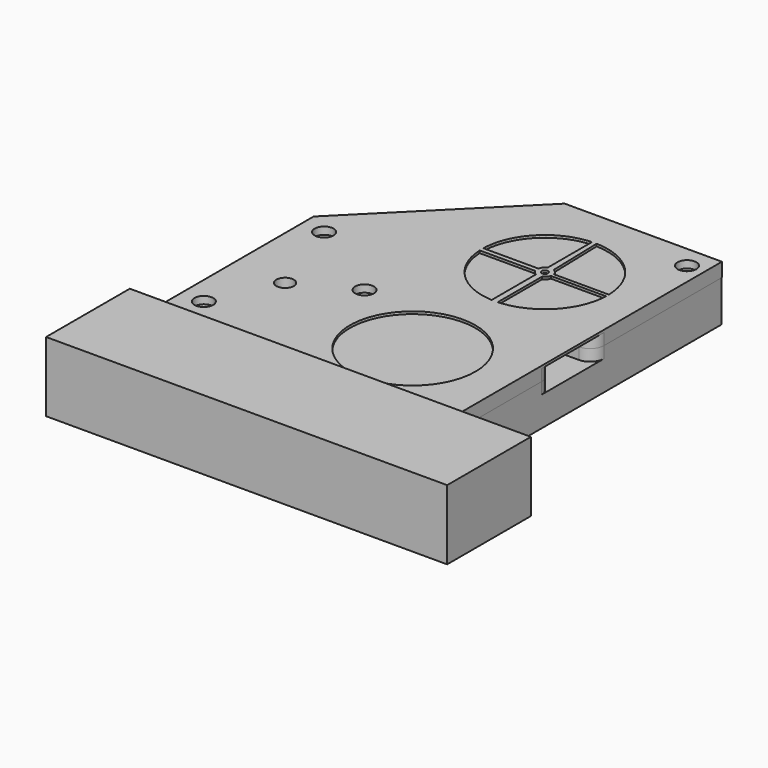
from build123d import *

# Parameters (mm, degrees)
F0_W      = 108.0466583371
F0_H      = 136.9725465775
F1_DEPTH  = 5.08
F2_W      = 108.0466583371
F2_H      = 137.1473036706
F3_DEPTH  = 5.08
F5_DEPTH  = 4.191
F6_SIZE   = 50.8
F8_DEPTH  = 12.7
F9_SIZE   = 50.8
F10_W     = 2.7343502734
F10_H     = 5.8392152925
F10_W_2   = 12.3428046756
F11_DEPTH = 4.191
F12_DEPTH = 9.906
F13_W     = 32.512
F13_H     = 12.446
F14_DEPTH = 2.54
F16_DEPTH = 25.4
F17_R     = 1.778
F17_R_2   = 3.175
F18_DEPTH = 25.4
F19_R     = 3.429
F20_DEPTH = 2.667
F21_W     = 7.874
F21_H     = 8.636
F21_W_2   = 8.636
F21_H_2   = 7.874
F22_DEPTH = 10.033
F23_R     = 5.08
F24_DEPTH = 8.001
F25_W     = 10.287
F25_H     = 11.43
F26_DEPTH = 3.81
F27_R     = 5.08
F27_2_R   = 5.08
F30_DEPTH = 4.191
F28_W     = 24.2757640897
F28_H     = 12.446
F31_DEPTH = 4.064
F32_R     = 22.86
F33_DEPTH = 5.08
F35_DEPTH = 8.001
F36_R     = 7.62
F36_2_R   = 7.62
F38_DEPTH = 4.191
F40_DEPTH = 4.191
F42_DEPTH = 4.191
F44_W     = 146.05
F44_H     = 25.4
F45_DEPTH = 38.1
F46_W     = 108.0570109189
F46_H     = 20.0896942988
F47_DEPTH = 15.7734


with BuildPart() as f1:
    # F0 (on Top) → F1 (new body)
    with BuildSketch(Plane.XY):
        with Locations((-18.7202356756, -32.2029069066)):
            Rectangle(F0_W, F0_H)
    extrude(amount=F1_DEPTH)


with BuildPart() as f3:
    # F2 (on face) → F3 (new body)
    with BuildSketch(Plane.XY.offset(5.08)):
        with Locations((-18.7202356756, -32.11552836)):
            Rectangle(F2_W, F2_H)
    extrude(amount=F3_DEPTH)


with BuildPart() as f5_tool:
    # F4 (on face) → F5 (new body, symmetric)
    with BuildSketch(Plane.XY.offset(5.08)):
        with BuildLine():
            ThreePointArc((4.8042272011, -30.099), (23.189041001, -19.7812734033), (30.48, 0))
            ThreePointArc((30.48, 0), (-19.7812734033, 23.189041001), (-4.8042272011, -30.099))
            ThreePointArc((-4.8042272011, -30.099), (-2.409655577, -29.813399295), (0, -29.718))
            ThreePointArc((0, -29.718), (2.409655577, -29.813399295), (4.8042272011, -30.099))
        make_face()
        with BuildLine():
            ThreePointArc((0, -29.718), (-2.409655577, -29.813399295), (-4.8042272011, -30.099))
            ThreePointArc((-4.8042272011, -30.099), (-2.409655577, -30.384600705), (0, -30.48))
            Line((0, -30.48), (0, -29.718))
        make_face()
        with BuildLine():
            ThreePointArc((0, -30.48), (-2.409655577, -30.384600705), (-4.8042272011, -30.099))
            ThreePointArc((-4.8042272011, -30.099), (-19.7812734033, -83.387041001), (30.48, -60.198))
            ThreePointArc((30.48, -60.198), (23.189041001, -40.4167265967), (4.8042272011, -30.099))
            ThreePointArc((4.8042272011, -30.099), (2.409655577, -30.384600705), (0, -30.48))
        make_face()
        with BuildLine():
            ThreePointArc((0, -30.48), (2.409655577, -30.384600705), (4.8042272011, -30.099))
            ThreePointArc((4.8042272011, -30.099), (2.409655577, -29.813399295), (0, -29.718))
            Line((0, -29.718), (0, -30.48))
        make_face()
    extrude(amount=F5_DEPTH, both=True)


with BuildPart() as f1_1:
    add(f1.part)

    # F5: cut by f5_tool
    add(f5_tool.part, mode=Mode.SUBTRACT)

    # F6
    f6_edges = [f1_1.edges().sort_by_distance(p)[0] for p in [
        (-72.743565, 36.283366, 2.54),
    ]]
    chamfer(f6_edges, length=F6_SIZE)


with BuildPart() as f3_1:
    add(f3.part)

    # F5: cut by f5_tool
    add(f5_tool.part, mode=Mode.SUBTRACT)


with BuildPart() as f8_tool:
    # F7 (on face) → F8 (new body, symmetric)
    with BuildSketch(Plane.XY.offset(0.889)):
        with BuildLine():
            ThreePointArc((0, -1.143), (0.8082230509, -0.8082230509), (1.143, 0))
            ThreePointArc((1.143, 0), (-0.8082230509, 0.8082230509), (0, -1.143))
        make_face()
        with BuildLine():
            ThreePointArc((5.08, -60.198), (3.5921024484, -56.6058975516), (0, -55.118))
            ThreePointArc((0, -55.118), (-3.5921024484, -63.7901024484), (5.08, -60.198))
        make_face()
    extrude(amount=F8_DEPTH, both=True)


with BuildPart() as f1_2:
    add(f1_1.part)

    # F8: cut by f8_tool
    add(f8_tool.part, mode=Mode.SUBTRACT)


with BuildPart() as f3_2:
    add(f3_1.part)

    # F8: cut by f8_tool
    add(f8_tool.part, mode=Mode.SUBTRACT)

    # F9
    f9_edges = [f3_2.edges().sort_by_distance(p)[0] for p in [
        (-72.743565, 36.458123, 7.62),
    ]]
    chamfer(f9_edges, length=F9_SIZE)


with BuildPart() as f11_tool:
    # F10 (on face) → F11 (new body, symmetric)
    with BuildSketch(Plane.XY.offset(5.08)):
        Polygon((46.5639494359, -22.2850777209), (0, -22.2850777209), (0, -27.1793923538), (2.7343502734, -27.1793923538), (2.7343502734, -33.0186076462), (0, -33.0186076462), (0, -40.6641960144), (46.5639494359, -40.6641960144), align=None)
        with Locations((1.3671751367, -30.099)):
            Rectangle(F10_W, F10_H)
        with Locations((-6.1714023378, -30.099)):
            Rectangle(F10_W_2, F10_H)
    extrude(amount=F11_DEPTH, both=True)


with BuildPart() as f1_3:
    add(f1_2.part)

    # F11: cut by f11_tool
    add(f11_tool.part, mode=Mode.SUBTRACT)

    # F12 (add): a face of the model
    f12_faces = [f1_3.faces().sort_by_distance(p)[0] for p in [
        (-15.2738957806, -36.9989924625, 0),
    ]]
    extrude(f12_faces, amount=F12_DEPTH)

    # F13 (on face) → F14 (cut)
    with BuildSketch(Plane(origin=(0, 0, -9.906), x_dir=(1, 0, 0), z_dir=(0, 0, -1))):
        with Locations((-5.4864, 60.198)):
            Rectangle(F13_W, F13_H)
    extrude(amount=-F14_DEPTH, mode=Mode.SUBTRACT)


with BuildPart() as f3_3:
    add(f3_2.part)

    # F11: cut by f11_tool
    add(f11_tool.part, mode=Mode.SUBTRACT)


with BuildPart() as f16_tool:
    # F15 (on face) → F16 (new body)
    with BuildSketch(Plane(origin=(0, 0, -7.366), x_dir=(1, 0, 0), z_dir=(0, 0, -1))):
        with BuildLine():
            ThreePointArc((-4.8293421053, 56.5829604317), (1.905, 54.4741873502), (6.0325, 60.198))
            ThreePointArc((6.0325, 60.198), (1.905, 65.9218126498), (-4.8293421053, 63.8130395683))
            ThreePointArc((-4.8293421053, 63.8130395683), (-2.9421819275, 62.4264600536), (-2.2225, 60.198))
            ThreePointArc((-2.2225, 60.198), (-2.9421819275, 57.9695399464), (-4.8293421053, 56.5829604317))
        make_face()
        with BuildLine():
            ThreePointArc((-2.2225, 60.198), (-2.9421819275, 62.4264600536), (-4.8293421053, 63.8130395683))
            ThreePointArc((-4.8293421053, 63.8130395683), (-6.0325, 60.198), (-4.8293421053, 56.5829604317))
            ThreePointArc((-4.8293421053, 56.5829604317), (-2.9421819275, 57.9695399464), (-2.2225, 60.198))
        make_face()
        with BuildLine():
            ThreePointArc((-4.8293421053, 56.5829604317), (-6.0325, 60.198), (-4.8293421053, 63.8130395683))
            ThreePointArc((-4.8293421053, 63.8130395683), (-9.8425, 60.198), (-4.8293421053, 56.5829604317))
        make_face()
    extrude(amount=-F16_DEPTH)


with BuildPart() as f1_4:
    add(f1_3.part)

    # F16: cut by f16_tool
    add(f16_tool.part, mode=Mode.SUBTRACT)


with BuildPart() as f3_4:
    add(f3_3.part)

    # F16: cut by f16_tool
    add(f16_tool.part, mode=Mode.SUBTRACT)


with BuildPart() as f18_tool:
    # F17 (on face) → F18 (new body, symmetric)
    with BuildSketch(Plane.XY.offset(5.08)):
        with Locations((-33.1892333925, -40.5930280685)):
            Circle(F17_R)
        with Locations((29.0877688676, 28.3268541098)):
            Circle(F17_R)
        with Locations((-53.5575076938, -51.3090826571)):
            Circle(F17_R_2)
        with Locations((-64.4301995635, -19.9471917003)):
            Circle(F17_R)
        with Locations((-64.4301995635, -74.7004747391)):
            Circle(F17_R)
    extrude(amount=F18_DEPTH, both=True)


with BuildPart() as f1_5:
    add(f1_4.part)

    # F18: cut by f18_tool
    add(f18_tool.part, mode=Mode.SUBTRACT)

    # F21 (on face) → F22 (cut)
    with BuildSketch(Plane(origin=(0, 0, -9.906), x_dir=(1, 0, 0), z_dir=(0, 0, -1))):
        with Locations((-33.1892333925, 40.5930280685)):
            Rectangle(F21_W, F21_H)
        with Locations((29.0877688676, -28.3268541098)):
            Rectangle(F21_W, F21_H)
        with Locations((-64.4301995635, 74.7004747391)):
            Rectangle(F21_W_2, F21_H_2)
        with Locations((-64.4301995635, 19.9471917003)):
            Rectangle(F21_W, F21_H)
    extrude(amount=-F22_DEPTH, mode=Mode.SUBTRACT)

    # F23 (on face) → F24 (cut)
    with BuildSketch(Plane(origin=(0, 0, -9.906), x_dir=(1, 0, 0), z_dir=(0, 0, -1))):
        with Locations((-53.5575076938, 51.3090826571)):
            Circle(F23_R)
    extrude(amount=-F24_DEPTH, mode=Mode.SUBTRACT)

    # F25 (on face) → F26 (cut)
    with BuildSketch(Plane.XY.offset(5.08)):
        with Locations((-53.5575076938, -51.3090826571)):
            Rectangle(F25_W, F25_H)
    extrude(amount=-F26_DEPTH, mode=Mode.SUBTRACT)

    # F27
    f27_edges = [f1_5.edges().sort_by_distance(p)[0] for p in [
        (35.303093, -40.664196, 2.9845),
        (35.303093, -22.285078, 2.9845),
    ]]
    fillet(f27_edges, radius=F27_R)


with BuildPart() as f3_5:
    add(f3_4.part)

    # F18: cut by f18_tool
    add(f18_tool.part, mode=Mode.SUBTRACT)

    # F19 (on face) → F20 (cut)
    with BuildSketch(Plane.XY.offset(10.16)):
        with Locations((-33.1892333925, -40.5930280685)):
            Circle(F19_R)
        with Locations((29.0877688676, 28.3268541098)):
            Circle(F19_R)
        with Locations((-64.4301995635, -19.9471917003)):
            Circle(F19_R)
        with Locations((-64.4301995635, -74.7004747391)):
            Circle(F19_R)
    extrude(amount=-F20_DEPTH, mode=Mode.SUBTRACT)

    # F27#2
    f27_2_edges = [f3_5.edges().sort_by_distance(p)[0] for p in [
        (35.303093, -40.664196, 7.1755),
        (35.303093, -22.285078, 7.1755),
    ]]
    fillet(f27_2_edges, radius=F27_2_R)


with BuildPart() as f30_tool:
    # F29 (on face) → F30 (new body, symmetric)
    with BuildSketch(Plane.XY.offset(5.08)):
        Polygon((-84.328, -29.464), (-84.328, -30.734), (84.328, -30.734), (84.328, -29.464), (0, -29.464), align=None)
    extrude(amount=F30_DEPTH, both=True)


with BuildPart() as f1_6:
    add(f1_5.part)

    # F30: cut by f30_tool
    add(f30_tool.part, mode=Mode.SUBTRACT)

    # F28 (on face) → F31 (cut)
    with BuildSketch(Plane(origin=(0, 0, -7.366), x_dir=(1, 0, 0), z_dir=(0, 0, -1))):
        with Locations((-5.4864, 60.198)):
            Rectangle(F28_W, F28_H)
    extrude(amount=-F31_DEPTH, mode=Mode.SUBTRACT)

    # F36
    f36_edges = [f1_6.edges().sort_by_distance(p)[0] for p in [
        (-72.743565, -29.464, 2.9845),
        (-72.743565, -30.734, 2.9845),
    ]]
    fillet(f36_edges, radius=F36_R)


with BuildPart() as f3_6:
    add(f3_5.part)

    # F30: cut by f30_tool
    add(f30_tool.part, mode=Mode.SUBTRACT)

    # F32 (on face) → F33 (cut)
    with BuildSketch(Plane.XY.offset(10.16)):
        with Locations((0, -60.198)):
            Circle(F32_R)
        Polygon((-22.8532618303, 0.5549988431), (-2.8030844679, 0.5549988431), (-2.7092192348, 0.9085358484), (-2.6065412235, 1.1710034587), (-2.3772467983, 1.585561071), (-2.0789925018, 1.9603817046), (-1.7409137921, 2.2659491209), (-1.4349555252, 2.4710744406), (-1.10462831, 2.6353562466), (-1.10462831, 22.8332957826), (-2.9108855319, 22.6739133239), (-5.0798900513, 22.2884346033), (-6.9206130615, 21.7872603797), (-8.4028455695, 21.2596280855), (-9.939498165, 20.5860626694), (-12.1092199727, 19.3893370607), (-14.0191805325, 18.056638037), (-15.4250078282, 16.8715361927), (-16.731911294, 15.5763520906), (-18.1439230021, 13.906029559), (-18.936133786, 12.8063436328), (-19.678237793, 11.6338539341), (-20.4345386992, 10.2474010437), (-21.1835838059, 8.5927514301), (-21.7894877544, 6.9135969945), (-22.2308235111, 5.326357669), (-22.5638743136, 3.6675844856), (-22.7485548521, 2.2545181619), align=None)
        Polygon((2.7296987624, 0.8450153352), (2.8030844679, 0.5549988431), (22.8532618303, 0.5549988431), (22.7818896763, 1.8881479748), (22.6075708744, 3.3878221853), (22.2028970638, 5.4415955359), (21.5851819375, 7.5272518708), (20.8947905963, 9.2729351307), (20.0712013249, 10.9419594852), (19.2556006349, 12.3207728731), (18.2101520955, 13.8191881332), (17.2709258813, 14.9764721881), (16.1002697689, 16.2283983611), (14.4668103289, 17.7000282177), (12.7261280868, 18.9901359637), (11.1992951359, 19.9287578253), (9.5032172972, 20.7910668558), (7.945147569, 21.4348834871), (6.0530966761, 22.0440382106), (3.8297419367, 22.5369180834), (2.6311089912, 22.7080792996), (1.4105349383, 22.8164412472), (0.7489899733, 22.8477266707), (0.5463071016, 22.8534712582), (1.10462831, 2.6353562466), (1.4105349383, 2.5071333082), (1.6789356046, 2.3122459829), (1.9976375195, 2.0432206417), (2.26986771, 1.7358014947), (2.508989499, 1.3675810558), align=None)
        Polygon((-1.10462831, -22.8332957826), (-1.10462831, -2.6353562466), (-1.4416842071, -2.4671548182), (-1.7447274183, -2.2630140269), (-2.1292519696, -1.9056737129), (-2.4034095402, -1.5456160041), (-2.6205406969, -1.1393299371), (-22.8315905555, -1.1393299371), (-22.5291732423, -3.8750423247), (-22.1243862873, -5.7524891491), (-21.5328569506, -7.6756544701), (-20.7779563298, -9.5318482341), (-19.7647254218, -11.4863061512), (-18.5465149781, -13.3643698754), (-17.4612283199, -14.7541555354), (-16.2023200216, -16.1265131358), (-14.6656598734, -17.535621474), (-12.9520776768, -18.8367535381), (-11.1589833593, -19.9513581088), (-9.4637301078, -20.8090704369), (-7.7438896889, -21.5084116681), (-5.9198096394, -22.0802050224), (-4.4334210817, -22.4259755086), (-2.5226919664, -22.7203790735), align=None)
        Polygon((1.3557186076, -2.5154191116), (1.10462831, -2.6353562466), (1.10462831, -22.8332957826), (2.3829544515, -22.7354597069), (4.8902210529, -22.3308158842), (7.5171605622, -21.5886983647), (10.5987468483, -20.2545344367), (12.7005834902, -19.007229651), (15.1587855241, -17.1111315065), (16.8093523616, -15.4927490519), (18.0858032882, -13.981534945), (19.4734729379, -11.9734477798), (20.3844420771, -10.3466961493), (21.1868129003, -8.5847864929), (21.7904600042, -6.9105320205), (22.1860792261, -5.5097630233), (22.4572409523, -4.2722276167), (22.7075867818, -2.6353562466), (22.8271141602, -1.2257483909), (22.847651346, -0.7512842151), (2.7569690383, -0.7512842151), (2.6820026126, -0.9859859207), (2.5576067043, -1.2743446144), (2.422981986, -1.5147490042), (2.2407458997, -1.7732354787), (2.0457846079, -1.9950116762), (1.8044954467, -2.2156494381), (1.6033893533, -2.3652587241), align=None)
    extrude(amount=-F33_DEPTH, mode=Mode.SUBTRACT)

    # F36#2
    f36_2_edges = [f3_6.edges().sort_by_distance(p)[0] for p in [
        (-72.743565, -29.464, 7.1755),
        (-72.743565, -30.734, 7.1755),
    ]]
    fillet(f36_2_edges, radius=F36_2_R)

    # F37 (on face) → F38 (cut)
    with BuildSketch(Plane(origin=(0, 0, 5.08), x_dir=(1, 0, 0), z_dir=(0, 0, -1))):
        Polygon((-19.6397843075, 32.1070179343), (-21.419535359, 33.4393022353), (-23.9379861553, 35.6664444054), (-32.1810497049, 35.9384634378), (-35.4403046868, 36.3961144075), (-37.4976302369, 38.5634658298), (-37.9078907387, 41.2377598728), (-50.1217551361, 47.5671574357), (-51.9548303948, 46.4885198813), (-55.1601849927, 46.4885198813), (-56.9382336535, 47.5173690622), (-57.9981709652, 48.8419163251), (-58.5762129315, 50.522318565), (-58.5762129315, 52.0958467492), (-57.9363617268, 53.8843568867), (-69.0410328224, 73.5081564475), (-69.146109726, 75.3650028345), (-68.7798047847, 76.6401501422), (-68.1819435698, 77.6340430715), (-67.374145766, 78.4440808891), (-66.1249775887, 79.1512200357), (-64.4382462171, 79.4629679413), (-63.0604739126, 79.2617528375), (-61.5188679006, 78.4695003689), (-60.428383078, 77.2825032181), (-59.7709439936, 75.6867524811), (-59.699774255, 74.1486752733), (-60.4731624242, 72.0503307188), (-61.6769235321, 70.8144900061), (-63.475500159, 70.0346462706), (-64.9053252009, 69.9617342019), (-66.8686928465, 70.6096121456), (-57.6500219635, 54.3186884373), (-57.0427079085, 55.0049965446), (-56.2340050867, 55.6268091081), (-55.3528443278, 56.0612575666), (-54.5220908791, 56.2966651655), (-53.5575076938, 56.4832126001), (-52.5929245084, 56.2966651655), (-51.1394412703, 55.7766720263), (-50.2504498287, 55.2955086565), (-49.104966941, 53.8843568867), (-48.8155942461, 53.131349612), (-48.5948166606, 52.394484753), (-48.4825108803, 51.0836778136), (-48.6399636651, 50.0346570114), (-48.9475215844, 49.1749720528), (-49.6972962961, 48.0067852802), (-37.8044647048, 41.7682072819), (-37.6263184849, 42.3232541036), (-37.4155488584, 42.7884013471), (-37.0778946289, 43.3425225745), (-36.7308668178, 43.7770882015), (-36.2347622985, 44.2544703981), (-35.5596238591, 44.7237247756), (-34.6143064246, 45.1373182335), (-33.5166102098, 45.3442627154), (-31.6914916039, 45.6974990666), (-31.4112285614, 46.4808894688), (-31.8855958004, 47.5671574357), (-32.283788549, 48.6836004071), (-33.1892333925, 51.6365055113), (-33.7690891226, 53.8843568867), (-34.1823339958, 57.6696717656), (-34.2567518164, 61.337892998), (-33.8468723808, 65.6029635615), (-33.0087411681, 69.4309522668), (-32.369059547, 71.4704613597), (-31.2250437277, 74.3338072023), (-29.6892712347, 77.32609314), (-27.7609552742, 80.3015758841), (-25.0791259985, 83.5616863575), (-20.399048739, 87.7425677331), (-15.1528629002, 90.9423514647), (-11.152914272, 92.6084443706), (-6.3138259311, 93.8871674455), (-1.1545415815, 94.4542612495), (4.4869262604, 94.1787576989), (9.8167342421, 93.0378558139), (14.8680339383, 91.0811016556), (19.6568871296, 88.2770168887), (24.3169494726, 84.3539592938), (28.0383429317, 79.912860555), (30.9951530946, 74.8310067213), (32.8338969848, 70.0346462706), (33.968351462, 64.7779017471), (33.968351462, 98.6551050062), (-71.2247267365, 98.6551050062), (-71.2247267365, 38.5634658298), (-70.6680938601, 36.1287668347), (-69.6521473576, 34.3334205017), (-68.7853693962, 33.2739651203), (-67.394964397, 32.5539372861), (-65.6321272254, 32.1070179343), align=None)
    extrude(amount=-F38_DEPTH, mode=Mode.SUBTRACT)

    # F39 (on face) → F40 (cut)
    with BuildSketch(Plane(origin=(0, 0, 5.08), x_dir=(1, 0, 0), z_dir=(0, 0, -1))):
        Polygon((-24.4625289678, 24.199402673), (-21.9879679007, 26.4680124079), (-59.7074446439, 26.4680124079), (-59.6677884212, 19.976283989), (-60.4804747663, 17.2861617726), (-62.2209770492, 15.7280991282), (-66.6394220778, 15.7280991282), (-68.5235258503, 17.5128363113), (-70.8477348089, 18.8963897526), (-70.8477348089, 15.7280991282), (-70.8477348089, 14.3012562767), (-21.9435648441, -34.6029136881), (-2.7885543563, -34.2965067876), (-9.1610185493, -33.1677878727), (-14.0767263574, -31.3986016932), (-18.7674661548, -28.8410926866), (-21.9435648441, -26.5048368257), (-25.0862987663, -23.5521554733), (-27.4402283561, -20.7619912579), (-29.7295332651, -17.3257399573), (-31.1764747706, -14.562068332), (-32.4761458625, -11.3721749523), (-33.3255164851, -8.5695019824), (-34.0697812193, -4.8245643219), (-34.3602766084, -1.8433134899), (-34.352733308, 1.9789207912), (-33.8603660958, 6.1238893756), (-32.9790415484, 9.8188202844), (-31.5731794951, 13.6806706633), (-29.6197058993, 17.5128363113), (-27.0225716853, 21.3027470703), align=None)
        Polygon((10.1227302537, -32.8870300489), (4.1917493675, -34.1534134527), (27.8906487711, -34.662188615), (27.7177755072, -32.888051808), (26.1687957295, -32.0899648002), (24.8882709437, -30.5731006317), (24.3421066055, -28.7269740216), (24.6853171736, -26.5103119737), (25.6889377966, -24.9907855252), (27.2332805908, -23.9402518391), (28.7669482655, -23.5751722611), (30.215696299, -23.6998479547), (31.718133297, -24.3566413675), (32.9097845577, -25.4854456008), (33.5360771888, -7.7044104262), (30.9441920902, -15.0493650733), (29.2362532534, -18.1457407931), (26.0289991665, -22.5059462281), (20.7943672896, -27.4157017465), (15.8083695535, -30.5634072919), align=None)
    extrude(amount=-F40_DEPTH, mode=Mode.SUBTRACT)

    # F41 (on face) → F42 (cut)
    with BuildSketch(Plane(origin=(0, 0, 5.08), x_dir=(1, 0, 0), z_dir=(0, 0, -1))):
        Polygon((-45.5871671438, 58.7495006621), (-61.8867129087, 68.283252418), (-68.4663280845, 71.4122056961), (-58.9934252203, 51.1031895876), (-56.8349435925, 56.5831176937), (-51.8242940307, 57.155136019), (-47.0133274794, 52.9731139541), (-49.1254627705, 48.5908786665), (-52.9400520027, 44.545147568), (-37.4976302369, 38.3328199387), (-37.9078907387, 41.2377598728), (-37.8044647048, 41.7682072819), (-38.7124754488, 45.3259982169), align=None)
    extrude(amount=-F42_DEPTH, mode=Mode.SUBTRACT)


with BuildPart() as f35:
    # F34 (on face) → F35 (new body)
    with BuildSketch(Plane.XY.offset(0.889)):
        with BuildLine():
            ThreePointArc((0, -30.099), (21.2832070069, -21.2832070069), (30.099, 0))
            ThreePointArc((30.099, 0), (-21.2832070069, 21.2832070069), (0, -30.099))
        make_face()
    extrude(amount=F35_DEPTH)


with BuildPart() as f35b:
    # F34 (on face) → F35, piece 2 (new body)
    with BuildSketch(Plane.XY.offset(0.889)):
        with BuildLine():
            ThreePointArc((30.099, -60.198), (21.2832070069, -38.9147929931), (0, -30.099))
            ThreePointArc((0, -30.099), (-21.2832070069, -81.4812070069), (30.099, -60.198))
        make_face()
    extrude(amount=F35_DEPTH)


with BuildPart() as f45:
    # F44 (on offset) → F45 (new body)
    with BuildSketch(Plane.XZ.offset(85.1951801953)):
        with Locations((-9.9724642932, -0.2076146982)):
            Rectangle(F44_W, F44_H)
    extrude(amount=F45_DEPTH)

    # F46 (on face) → F47 (cut)
    with BuildSketch(Plane(origin=(0, -85.1951801953, 0), x_dir=(-1, 0, 0), z_dir=(0, 1, 0))):
        with Locations((18.7154170126, 0.1385179348)):
            Rectangle(F46_W, F46_H)
    extrude(amount=-F47_DEPTH, mode=Mode.SUBTRACT)


solid = Compound([f1_6.part, f3_6.part, f35.part, f35b.part, f45.part])
